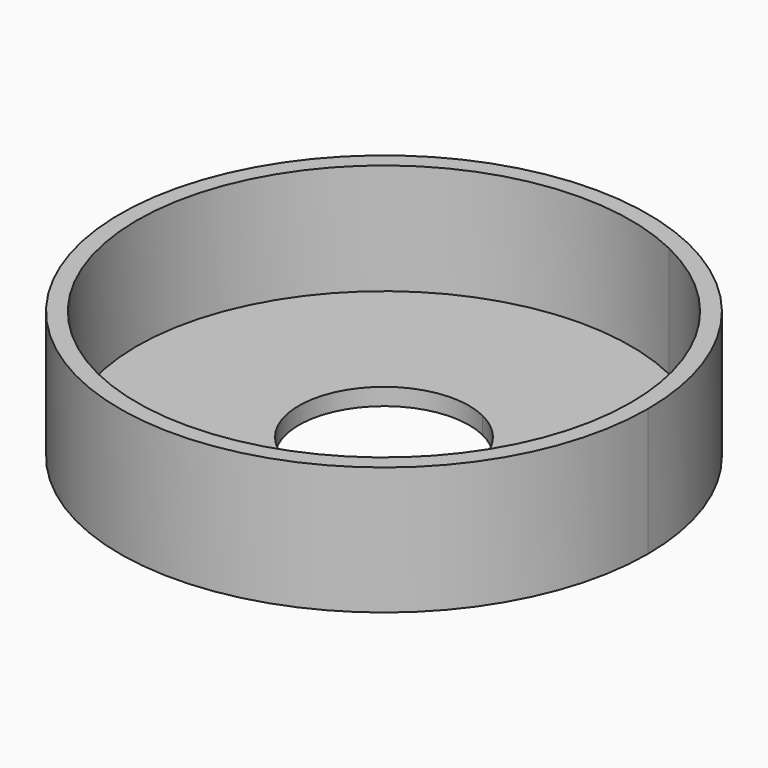
from build123d import *

# Parameters (mm, degrees)
F1_DEPTH = 150
F2_DEPTH = 20


with BuildPart() as f1:
    # F0 (on Top) → F1 (new body)
    with BuildSketch(Plane.XY):
        with BuildLine():
            ThreePointArc((310, 0), (296.606764, 90.135608), (257.584337, 172.48278))
            ThreePointArc((257.584337, 172.48278), (-296.606764, -90.135608), (310, 0))
        make_face()
        with BuildLine():
            ThreePointArc((290, 0), (-245.641004, -154.144403), (126.134504, 261.132317))
            ThreePointArc((126.134504, 261.132317), (190.209303, 218.907335), (240.965993, 161.354859))
            ThreePointArc((240.965993, 161.354859), (277.470843, 84.320407), (290, 0))
        make_face(mode=Mode.SUBTRACT)
    extrude(amount=F1_DEPTH)

    # F0 (on Top) → F2 (join)
    with BuildSketch(Plane.XY):
        with BuildLine():
            ThreePointArc((310, 0), (296.606764, 90.135608), (257.584337, 172.48278))
            ThreePointArc((257.584337, 172.48278), (-296.606764, -90.135608), (310, 0))
        make_face()
        with BuildLine():
            ThreePointArc((290, 0), (-245.641004, -154.144403), (126.134504, 261.132317))
            ThreePointArc((126.134504, 261.132317), (190.209303, 218.907335), (240.965993, 161.354859))
            ThreePointArc((240.965993, 161.354859), (277.470843, 84.320407), (290, 0))
        make_face(mode=Mode.SUBTRACT)
        with BuildLine():
            ThreePointArc((240.965993, 161.354859), (190.209303, 218.907335), (126.134504, 261.132317))
            Line((126.134504, 261.132317), (43.494656, 90.045627))
            ThreePointArc((43.494656, 90.045627), (65.589415, 75.485288), (83.091722, 55.639606))
            Line((83.091722, 55.639606), (240.965993, 161.354859))
        make_face()
        with BuildLine():
            Line((43.494656, 90.045627), (126.134504, 261.132317))
            ThreePointArc((126.134504, 261.132317), (-245.641004, -154.144403), (290, 0))
            ThreePointArc((290, 0), (277.470843, 84.320407), (240.965993, 161.354859))
            Line((240.965993, 161.354859), (83.091722, 55.639606))
            ThreePointArc((83.091722, 55.639606), (92.719332, 37.458316), (98.422595, 17.691601))
            ThreePointArc((98.422595, 17.691601), (99.604868, 8.880892), (100, 0))
            ThreePointArc((100, 0), (-84.703795, -53.153242), (43.494656, 90.045627))
        make_face()
    extrude(amount=F2_DEPTH)


solid = f1.part
